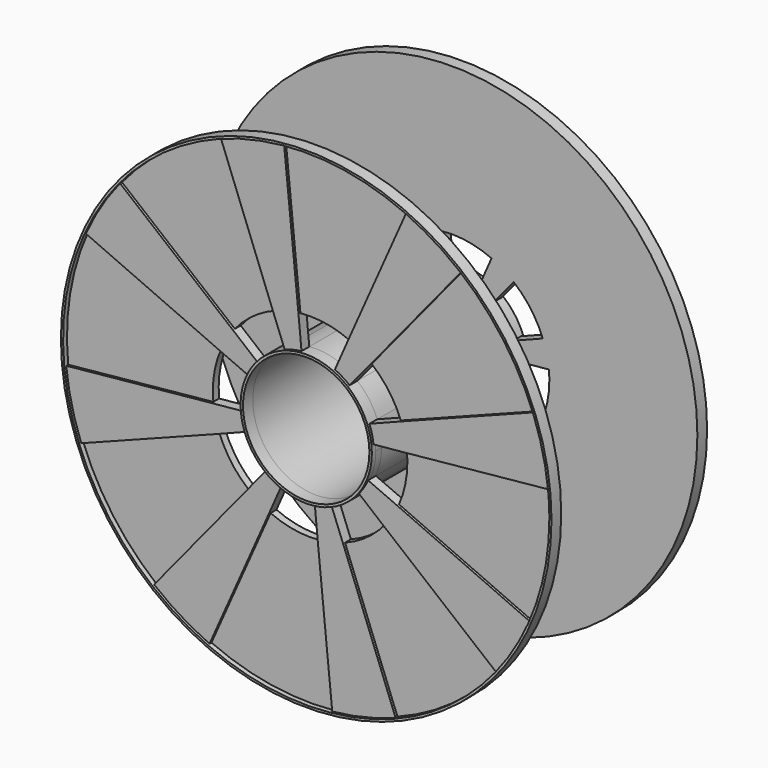
from build123d import *

# Parameters (mm, degrees)
F0_R      = 100.8982980886
F0_R_2    = 26
F1_DEPTH  = 3
F2_DEPTH  = 5
F3_DEPTH  = 4
F3_FACE_R = 26
F4_DEPTH  = 2
F7_DEPTH  = 70


with BuildPart() as f1:
    # F0 (on Front) → F1 (new body)
    with BuildSketch(Plane.XZ):
        Circle(F0_R)
        with BuildLine():
            ThreePointArc((93.3159659734, 35.9462166918), (97.2869491535, 23.1354603242), (99.5078939666, 9.9085336115))
            ThreePointArc((99.5078939666, 9.9085336115), (99.8768977208, 4.9603731381), (100, 0))
            ThreePointArc((100, 0), (97.8269303192, -20.7338299483), (91.4021659135, -40.566538752))
            ThreePointArc((91.4021659135, -40.566538752), (85.1515023485, -52.4330205863), (77.3690979137, -63.3563152971))
            ThreePointArc((77.3690979137, -63.3563152971), (58.6044818951, -81.0278637371), (35.9462166918, -93.3159659734))
            ThreePointArc((35.9462166918, -93.3159659734), (23.1354603242, -97.2869491535), (9.9085336115, -99.5078939666))
            ThreePointArc((9.9085336115, -99.5078939666), (-15.8557253576, -98.7349784696), (-40.566538752, -91.4021659135))
            ThreePointArc((-40.566538752, -91.4021659135), (-52.4330205863, -85.1515023485), (-63.3563152971, -77.3690979137))
            ThreePointArc((-63.3563152971, -77.3690979137), (-81.0278637371, -58.6044818951), (-93.3159659734, -35.9462166918))
            ThreePointArc((-93.3159659734, -35.9462166918), (-97.2869491535, -23.1354603242), (-99.5078939666, -9.9085336115))
            ThreePointArc((-99.5078939666, -9.9085336115), (-98.7349784696, 15.8557253576), (-91.4021659135, 40.566538752))
            ThreePointArc((-91.4021659135, 40.566538752), (-85.1515023485, 52.4330205863), (-77.3690979137, 63.3563152971))
            ThreePointArc((-77.3690979137, 63.3563152971), (-58.6044818951, 81.0278637371), (-35.9462166918, 93.3159659734))
            ThreePointArc((-35.9462166918, 93.3159659734), (-23.1354603242, 97.2869491535), (-9.9085336115, 99.5078939666))
            ThreePointArc((-9.9085336115, 99.5078939666), (15.8557253576, 98.7349784696), (40.566538752, 91.4021659135))
            ThreePointArc((40.566538752, 91.4021659135), (52.4330205863, 85.1515023485), (63.3563152971, 77.3690979137))
            ThreePointArc((63.3563152971, 77.3690979137), (81.0278637371, 58.6044818951), (93.3159659734, 35.9462166918))
        make_face(mode=Mode.SUBTRACT)
        with BuildLine():
            ThreePointArc((24.6560858332, -11.0035190455), (26.4075208747, -5.6251969967), (27, 0))
            ThreePointArc((27, 0), (26.9653758366, 1.3669330599), (26.8615921489, 2.7303602743))
            ThreePointArc((26.8615921489, 2.7303602743), (26.2674762714, 6.2465742875), (25.2151484242, 9.6538225562))
            ThreePointArc((25.2151484242, 9.6538225562), (21.877523209, 15.8232101117), (17.0633576969, 20.924670227))
            ThreePointArc((17.0633576969, 20.924670227), (14.1569155583, 22.9909056341), (11.0035190455, 24.6560858332))
            ThreePointArc((11.0035190455, 24.6560858332), (4.2810458466, 26.6584441868), (-2.7303602743, 26.8615921489))
            ThreePointArc((-2.7303602743, 26.8615921489), (-6.2465742875, 26.2674762714), (-9.6538225562, 25.2151484242))
            ThreePointArc((-9.6538225562, 25.2151484242), (-15.8232101117, 21.877523209), (-20.924670227, 17.0633576969))
            ThreePointArc((-20.924670227, 17.0633576969), (-22.9909056341, 14.1569155583), (-24.6560858332, 11.0035190455))
            ThreePointArc((-24.6560858332, 11.0035190455), (-26.6584441868, 4.2810458466), (-26.8615921489, -2.7303602743))
            ThreePointArc((-26.8615921489, -2.7303602743), (-26.2674762714, -6.2465742875), (-25.2151484242, -9.6538225562))
            ThreePointArc((-25.2151484242, -9.6538225562), (-21.877523209, -15.8232101117), (-17.0633576969, -20.924670227))
            ThreePointArc((-17.0633576969, -20.924670227), (-14.1569155583, -22.9909056341), (-11.0035190455, -24.6560858332))
            ThreePointArc((-11.0035190455, -24.6560858332), (-4.2810458466, -26.6584441868), (2.7303602743, -26.8615921489))
            ThreePointArc((2.7303602743, -26.8615921489), (6.2465742875, -26.2674762714), (9.6538225562, -25.2151484242))
            ThreePointArc((9.6538225562, -25.2151484242), (15.8232101117, -21.877523209), (20.924670227, -17.0633576969))
            ThreePointArc((20.924670227, -17.0633576969), (22.9909056341, -14.1569155583), (24.6560858332, -11.0035190455))
        make_face()
        Circle(F0_R_2, mode=Mode.SUBTRACT)
        with BuildLine():
            Line((77.3690979137, -63.3563152971), (30.9476391655, -25.3425261188))
            ThreePointArc((30.9476391655, -25.3425261188), (23.441792758, -32.4111454949), (14.3784866767, -37.3263863894))
            Line((14.3784866767, -37.3263863894), (35.9462166918, -93.3159659734))
            ThreePointArc((35.9462166918, -93.3159659734), (58.6044818951, -81.0278637371), (77.3690979137, -63.3563152971))
        make_face()
        with BuildLine():
            Line((-63.3563152971, -77.3690979137), (-25.3425261188, -30.9476391655))
            ThreePointArc((-25.3425261188, -30.9476391655), (-32.4111454949, -23.441792758), (-37.3263863894, -14.3784866767))
            Line((-37.3263863894, -14.3784866767), (-93.3159659734, -35.9462166918))
            ThreePointArc((-93.3159659734, -35.9462166918), (-81.0278637371, -58.6044818951), (-63.3563152971, -77.3690979137))
        make_face()
        with BuildLine():
            ThreePointArc((-39.8031575866, -3.9634134446), (-39.4939913878, 6.3422901431), (-36.5608663654, 16.2266155008))
            Line((-36.5608663654, 16.2266155008), (-91.4021659135, 40.566538752))
            ThreePointArc((-91.4021659135, 40.566538752), (-98.7349784696, 15.8557253576), (-99.5078939666, -9.9085336115))
            Line((-99.5078939666, -9.9085336115), (-39.8031575866, -3.9634134446))
        make_face()
        with BuildLine():
            Line((9.9085336115, -99.5078939666), (3.9634134446, -39.8031575866))
            ThreePointArc((3.9634134446, -39.8031575866), (-6.3422901431, -39.4939913878), (-16.2266155008, -36.5608663654))
            Line((-16.2266155008, -36.5608663654), (-40.566538752, -91.4021659135))
            ThreePointArc((-40.566538752, -91.4021659135), (-15.8557253576, -98.7349784696), (9.9085336115, -99.5078939666))
        make_face()
        with BuildLine():
            Line((99.5078939666, 9.9085336115), (39.8031575866, 3.9634134446))
            ThreePointArc((39.8031575866, 3.9634134446), (39.9507590883, 1.9841492552), (40, 0))
            ThreePointArc((40, 0), (39.1307721277, -8.2935319793), (36.5608663654, -16.2266155008))
            Line((36.5608663654, -16.2266155008), (91.4021659135, -40.566538752))
            ThreePointArc((91.4021659135, -40.566538752), (97.8269303192, -20.7338299483), (100, 0))
            ThreePointArc((100, 0), (99.8768977208, 4.9603731381), (99.5078939666, 9.9085336115))
        make_face()
        with BuildLine():
            ThreePointArc((-30.9476391655, 25.3425261188), (-23.441792758, 32.4111454949), (-14.3784866767, 37.3263863894))
            Line((-14.3784866767, 37.3263863894), (-35.9462166918, 93.3159659734))
            ThreePointArc((-35.9462166918, 93.3159659734), (-58.6044818951, 81.0278637371), (-77.3690979137, 63.3563152971))
            Line((-77.3690979137, 63.3563152971), (-30.9476391655, 25.3425261188))
        make_face()
        with BuildLine():
            ThreePointArc((-3.9634134446, 39.8031575866), (6.3422901431, 39.4939913878), (16.2266155008, 36.5608663654))
            Line((16.2266155008, 36.5608663654), (40.566538752, 91.4021659135))
            ThreePointArc((40.566538752, 91.4021659135), (15.8557253576, 98.7349784696), (-9.9085336115, 99.5078939666))
            Line((-9.9085336115, 99.5078939666), (-3.9634134446, 39.8031575866))
        make_face()
        with BuildLine():
            ThreePointArc((25.3425261188, 30.9476391655), (32.4111454949, 23.441792758), (37.3263863894, 14.3784866767))
            Line((37.3263863894, 14.3784866767), (93.3159659734, 35.9462166918))
            ThreePointArc((93.3159659734, 35.9462166918), (81.0278637371, 58.6044818951), (63.3563152971, 77.3690979137))
            Line((63.3563152971, 77.3690979137), (25.3425261188, 30.9476391655))
        make_face()
        with BuildLine():
            ThreePointArc((37.3263863894, 14.3784866767), (38.9147796614, 9.2541841297), (39.8031575866, 3.9634134446))
            Line((39.8031575866, 3.9634134446), (99.5078939666, 9.9085336115))
            ThreePointArc((99.5078939666, 9.9085336115), (97.2869491535, 23.1354603242), (93.3159659734, 35.9462166918))
            Line((93.3159659734, 35.9462166918), (37.3263863894, 14.3784866767))
        make_face()
        with BuildLine():
            Line((-93.3159659734, -35.9462166918), (-37.3263863894, -14.3784866767))
            ThreePointArc((-37.3263863894, -14.3784866767), (-38.9147796614, -9.2541841297), (-39.8031575866, -3.9634134446))
            Line((-39.8031575866, -3.9634134446), (-99.5078939666, -9.9085336115))
            ThreePointArc((-99.5078939666, -9.9085336115), (-97.2869491535, -23.1354603242), (-93.3159659734, -35.9462166918))
        make_face()
        with BuildLine():
            Line((91.4021659135, -40.566538752), (36.5608663654, -16.2266155008))
            ThreePointArc((36.5608663654, -16.2266155008), (34.0606009394, -20.9732082345), (30.9476391655, -25.3425261188))
            Line((30.9476391655, -25.3425261188), (77.3690979137, -63.3563152971))
            ThreePointArc((77.3690979137, -63.3563152971), (85.1515023485, -52.4330205863), (91.4021659135, -40.566538752))
        make_face()
        with BuildLine():
            Line((-40.566538752, -91.4021659135), (-16.2266155008, -36.5608663654))
            ThreePointArc((-16.2266155008, -36.5608663654), (-20.9732082345, -34.0606009394), (-25.3425261188, -30.9476391655))
            Line((-25.3425261188, -30.9476391655), (-63.3563152971, -77.3690979137))
            ThreePointArc((-63.3563152971, -77.3690979137), (-52.4330205863, -85.1515023485), (-40.566538752, -91.4021659135))
        make_face()
        with BuildLine():
            ThreePointArc((-14.3784866767, 37.3263863894), (-9.2541841297, 38.9147796614), (-3.9634134446, 39.8031575866))
            Line((-3.9634134446, 39.8031575866), (-9.9085336115, 99.5078939666))
            ThreePointArc((-9.9085336115, 99.5078939666), (-23.1354603242, 97.2869491535), (-35.9462166918, 93.3159659734))
            Line((-35.9462166918, 93.3159659734), (-14.3784866767, 37.3263863894))
        make_face()
        with BuildLine():
            ThreePointArc((-36.5608663654, 16.2266155008), (-34.0606009394, 20.9732082345), (-30.9476391655, 25.3425261188))
            Line((-30.9476391655, 25.3425261188), (-77.3690979137, 63.3563152971))
            ThreePointArc((-77.3690979137, 63.3563152971), (-85.1515023485, 52.4330205863), (-91.4021659135, 40.566538752))
            Line((-91.4021659135, 40.566538752), (-36.5608663654, 16.2266155008))
        make_face()
        with BuildLine():
            Line((35.9462166918, -93.3159659734), (14.3784866767, -37.3263863894))
            ThreePointArc((14.3784866767, -37.3263863894), (9.2541841297, -38.9147796614), (3.9634134446, -39.8031575866))
            Line((3.9634134446, -39.8031575866), (9.9085336115, -99.5078939666))
            ThreePointArc((9.9085336115, -99.5078939666), (23.1354603242, -97.2869491535), (35.9462166918, -93.3159659734))
        make_face()
        with BuildLine():
            ThreePointArc((16.2266155008, 36.5608663654), (20.9732082345, 34.0606009394), (25.3425261188, 30.9476391655))
            Line((25.3425261188, 30.9476391655), (63.3563152971, 77.3690979137))
            ThreePointArc((63.3563152971, 77.3690979137), (52.4330205863, 85.1515023485), (40.566538752, 91.4021659135))
            Line((40.566538752, 91.4021659135), (16.2266155008, 36.5608663654))
        make_face()
        with BuildLine():
            ThreePointArc((25.2151484242, 9.6538225562), (26.2674762714, 6.2465742875), (26.8615921489, 2.7303602743))
            Line((26.8615921489, 2.7303602743), (39.8031575866, 3.9634134446))
            ThreePointArc((39.8031575866, 3.9634134446), (38.9147796614, 9.2541841297), (37.3263863894, 14.3784866767))
            Line((37.3263863894, 14.3784866767), (25.2151484242, 9.6538225562))
        make_face()
        with BuildLine():
            ThreePointArc((11.0035190455, 24.6560858332), (14.1569155583, 22.9909056341), (17.0633576969, 20.924670227))
            Line((17.0633576969, 20.924670227), (25.3425261188, 30.9476391655))
            ThreePointArc((25.3425261188, 30.9476391655), (20.9732082345, 34.0606009394), (16.2266155008, 36.5608663654))
            Line((16.2266155008, 36.5608663654), (11.0035190455, 24.6560858332))
        make_face()
        with BuildLine():
            Line((36.5608663654, -16.2266155008), (24.6560858332, -11.0035190455))
            ThreePointArc((24.6560858332, -11.0035190455), (22.9909056341, -14.1569155583), (20.924670227, -17.0633576969))
            Line((20.924670227, -17.0633576969), (30.9476391655, -25.3425261188))
            ThreePointArc((30.9476391655, -25.3425261188), (34.0606009394, -20.9732082345), (36.5608663654, -16.2266155008))
        make_face()
        with BuildLine():
            Line((14.3784866767, -37.3263863894), (9.6538225562, -25.2151484242))
            ThreePointArc((9.6538225562, -25.2151484242), (6.2465742875, -26.2674762714), (2.7303602743, -26.8615921489))
            Line((2.7303602743, -26.8615921489), (3.9634134446, -39.8031575866))
            ThreePointArc((3.9634134446, -39.8031575866), (9.2541841297, -38.9147796614), (14.3784866767, -37.3263863894))
        make_face()
        with BuildLine():
            Line((-37.3263863894, -14.3784866767), (-25.2151484242, -9.6538225562))
            ThreePointArc((-25.2151484242, -9.6538225562), (-26.2674762714, -6.2465742875), (-26.8615921489, -2.7303602743))
            Line((-26.8615921489, -2.7303602743), (-39.8031575866, -3.9634134446))
            ThreePointArc((-39.8031575866, -3.9634134446), (-38.9147796614, -9.2541841297), (-37.3263863894, -14.3784866767))
        make_face()
        with BuildLine():
            Line((-16.2266155008, -36.5608663654), (-11.0035190455, -24.6560858332))
            ThreePointArc((-11.0035190455, -24.6560858332), (-14.1569155583, -22.9909056341), (-17.0633576969, -20.924670227))
            Line((-17.0633576969, -20.924670227), (-25.3425261188, -30.9476391655))
            ThreePointArc((-25.3425261188, -30.9476391655), (-20.9732082345, -34.0606009394), (-16.2266155008, -36.5608663654))
        make_face()
        with BuildLine():
            ThreePointArc((-24.6560858332, 11.0035190455), (-22.9909056341, 14.1569155583), (-20.924670227, 17.0633576969))
            Line((-20.924670227, 17.0633576969), (-30.9476391655, 25.3425261188))
            ThreePointArc((-30.9476391655, 25.3425261188), (-34.0606009394, 20.9732082345), (-36.5608663654, 16.2266155008))
            Line((-36.5608663654, 16.2266155008), (-24.6560858332, 11.0035190455))
        make_face()
        with BuildLine():
            ThreePointArc((-9.6538225562, 25.2151484242), (-6.2465742875, 26.2674762714), (-2.7303602743, 26.8615921489))
            Line((-2.7303602743, 26.8615921489), (-3.9634134446, 39.8031575866))
            ThreePointArc((-3.9634134446, 39.8031575866), (-9.2541841297, 38.9147796614), (-14.3784866767, 37.3263863894))
            Line((-14.3784866767, 37.3263863894), (-9.6538225562, 25.2151484242))
        make_face()
    extrude(amount=F1_DEPTH)

    # F0 (on Front) → F2 (join)
    with BuildSketch(Plane.XZ):
        Circle(F0_R)
        with BuildLine():
            ThreePointArc((93.3159659734, 35.9462166918), (97.2869491535, 23.1354603242), (99.5078939666, 9.9085336115))
            ThreePointArc((99.5078939666, 9.9085336115), (99.8768977208, 4.9603731381), (100, 0))
            ThreePointArc((100, 0), (97.8269303192, -20.7338299483), (91.4021659135, -40.566538752))
            ThreePointArc((91.4021659135, -40.566538752), (85.1515023485, -52.4330205863), (77.3690979137, -63.3563152971))
            ThreePointArc((77.3690979137, -63.3563152971), (58.6044818951, -81.0278637371), (35.9462166918, -93.3159659734))
            ThreePointArc((35.9462166918, -93.3159659734), (23.1354603242, -97.2869491535), (9.9085336115, -99.5078939666))
            ThreePointArc((9.9085336115, -99.5078939666), (-15.8557253576, -98.7349784696), (-40.566538752, -91.4021659135))
            ThreePointArc((-40.566538752, -91.4021659135), (-52.4330205863, -85.1515023485), (-63.3563152971, -77.3690979137))
            ThreePointArc((-63.3563152971, -77.3690979137), (-81.0278637371, -58.6044818951), (-93.3159659734, -35.9462166918))
            ThreePointArc((-93.3159659734, -35.9462166918), (-97.2869491535, -23.1354603242), (-99.5078939666, -9.9085336115))
            ThreePointArc((-99.5078939666, -9.9085336115), (-98.7349784696, 15.8557253576), (-91.4021659135, 40.566538752))
            ThreePointArc((-91.4021659135, 40.566538752), (-85.1515023485, 52.4330205863), (-77.3690979137, 63.3563152971))
            ThreePointArc((-77.3690979137, 63.3563152971), (-58.6044818951, 81.0278637371), (-35.9462166918, 93.3159659734))
            ThreePointArc((-35.9462166918, 93.3159659734), (-23.1354603242, 97.2869491535), (-9.9085336115, 99.5078939666))
            ThreePointArc((-9.9085336115, 99.5078939666), (15.8557253576, 98.7349784696), (40.566538752, 91.4021659135))
            ThreePointArc((40.566538752, 91.4021659135), (52.4330205863, 85.1515023485), (63.3563152971, 77.3690979137))
            ThreePointArc((63.3563152971, 77.3690979137), (81.0278637371, 58.6044818951), (93.3159659734, 35.9462166918))
        make_face(mode=Mode.SUBTRACT)
    extrude(amount=F2_DEPTH)

    # F0 (on Front) → F3 (join)
    with BuildSketch(Plane.XZ):
        with BuildLine():
            ThreePointArc((-36.5608663654, 16.2266155008), (-34.0606009394, 20.9732082345), (-30.9476391655, 25.3425261188))
            Line((-30.9476391655, 25.3425261188), (-77.3690979137, 63.3563152971))
            ThreePointArc((-77.3690979137, 63.3563152971), (-85.1515023485, 52.4330205863), (-91.4021659135, 40.566538752))
            Line((-91.4021659135, 40.566538752), (-36.5608663654, 16.2266155008))
        make_face()
        with BuildLine():
            Line((-93.3159659734, -35.9462166918), (-37.3263863894, -14.3784866767))
            ThreePointArc((-37.3263863894, -14.3784866767), (-38.9147796614, -9.2541841297), (-39.8031575866, -3.9634134446))
            Line((-39.8031575866, -3.9634134446), (-99.5078939666, -9.9085336115))
            ThreePointArc((-99.5078939666, -9.9085336115), (-97.2869491535, -23.1354603242), (-93.3159659734, -35.9462166918))
        make_face()
        with BuildLine():
            Line((-40.566538752, -91.4021659135), (-16.2266155008, -36.5608663654))
            ThreePointArc((-16.2266155008, -36.5608663654), (-20.9732082345, -34.0606009394), (-25.3425261188, -30.9476391655))
            Line((-25.3425261188, -30.9476391655), (-63.3563152971, -77.3690979137))
            ThreePointArc((-63.3563152971, -77.3690979137), (-52.4330205863, -85.1515023485), (-40.566538752, -91.4021659135))
        make_face()
        with BuildLine():
            Line((35.9462166918, -93.3159659734), (14.3784866767, -37.3263863894))
            ThreePointArc((14.3784866767, -37.3263863894), (9.2541841297, -38.9147796614), (3.9634134446, -39.8031575866))
            Line((3.9634134446, -39.8031575866), (9.9085336115, -99.5078939666))
            ThreePointArc((9.9085336115, -99.5078939666), (23.1354603242, -97.2869491535), (35.9462166918, -93.3159659734))
        make_face()
        with BuildLine():
            Line((91.4021659135, -40.566538752), (36.5608663654, -16.2266155008))
            ThreePointArc((36.5608663654, -16.2266155008), (34.0606009394, -20.9732082345), (30.9476391655, -25.3425261188))
            Line((30.9476391655, -25.3425261188), (77.3690979137, -63.3563152971))
            ThreePointArc((77.3690979137, -63.3563152971), (85.1515023485, -52.4330205863), (91.4021659135, -40.566538752))
        make_face()
        with BuildLine():
            ThreePointArc((37.3263863894, 14.3784866767), (38.9147796614, 9.2541841297), (39.8031575866, 3.9634134446))
            Line((39.8031575866, 3.9634134446), (99.5078939666, 9.9085336115))
            ThreePointArc((99.5078939666, 9.9085336115), (97.2869491535, 23.1354603242), (93.3159659734, 35.9462166918))
            Line((93.3159659734, 35.9462166918), (37.3263863894, 14.3784866767))
        make_face()
        with BuildLine():
            ThreePointArc((16.2266155008, 36.5608663654), (20.9732082345, 34.0606009394), (25.3425261188, 30.9476391655))
            Line((25.3425261188, 30.9476391655), (63.3563152971, 77.3690979137))
            ThreePointArc((63.3563152971, 77.3690979137), (52.4330205863, 85.1515023485), (40.566538752, 91.4021659135))
            Line((40.566538752, 91.4021659135), (16.2266155008, 36.5608663654))
        make_face()
        with BuildLine():
            ThreePointArc((-14.3784866767, 37.3263863894), (-9.2541841297, 38.9147796614), (-3.9634134446, 39.8031575866))
            Line((-3.9634134446, 39.8031575866), (-9.9085336115, 99.5078939666))
            ThreePointArc((-9.9085336115, 99.5078939666), (-23.1354603242, 97.2869491535), (-35.9462166918, 93.3159659734))
            Line((-35.9462166918, 93.3159659734), (-14.3784866767, 37.3263863894))
        make_face()
        with BuildLine():
            Line((-16.2266155008, -36.5608663654), (-11.0035190455, -24.6560858332))
            ThreePointArc((-11.0035190455, -24.6560858332), (-14.1569155583, -22.9909056341), (-17.0633576969, -20.924670227))
            Line((-17.0633576969, -20.924670227), (-25.3425261188, -30.9476391655))
            ThreePointArc((-25.3425261188, -30.9476391655), (-20.9732082345, -34.0606009394), (-16.2266155008, -36.5608663654))
        make_face()
        with BuildLine():
            Line((14.3784866767, -37.3263863894), (9.6538225562, -25.2151484242))
            ThreePointArc((9.6538225562, -25.2151484242), (6.2465742875, -26.2674762714), (2.7303602743, -26.8615921489))
            Line((2.7303602743, -26.8615921489), (3.9634134446, -39.8031575866))
            ThreePointArc((3.9634134446, -39.8031575866), (9.2541841297, -38.9147796614), (14.3784866767, -37.3263863894))
        make_face()
        with BuildLine():
            Line((36.5608663654, -16.2266155008), (24.6560858332, -11.0035190455))
            ThreePointArc((24.6560858332, -11.0035190455), (22.9909056341, -14.1569155583), (20.924670227, -17.0633576969))
            Line((20.924670227, -17.0633576969), (30.9476391655, -25.3425261188))
            ThreePointArc((30.9476391655, -25.3425261188), (34.0606009394, -20.9732082345), (36.5608663654, -16.2266155008))
        make_face()
        with BuildLine():
            ThreePointArc((25.2151484242, 9.6538225562), (26.2674762714, 6.2465742875), (26.8615921489, 2.7303602743))
            Line((26.8615921489, 2.7303602743), (39.8031575866, 3.9634134446))
            ThreePointArc((39.8031575866, 3.9634134446), (38.9147796614, 9.2541841297), (37.3263863894, 14.3784866767))
            Line((37.3263863894, 14.3784866767), (25.2151484242, 9.6538225562))
        make_face()
        with BuildLine():
            ThreePointArc((11.0035190455, 24.6560858332), (14.1569155583, 22.9909056341), (17.0633576969, 20.924670227))
            Line((17.0633576969, 20.924670227), (25.3425261188, 30.9476391655))
            ThreePointArc((25.3425261188, 30.9476391655), (20.9732082345, 34.0606009394), (16.2266155008, 36.5608663654))
            Line((16.2266155008, 36.5608663654), (11.0035190455, 24.6560858332))
        make_face()
        with BuildLine():
            ThreePointArc((-9.6538225562, 25.2151484242), (-6.2465742875, 26.2674762714), (-2.7303602743, 26.8615921489))
            Line((-2.7303602743, 26.8615921489), (-3.9634134446, 39.8031575866))
            ThreePointArc((-3.9634134446, 39.8031575866), (-9.2541841297, 38.9147796614), (-14.3784866767, 37.3263863894))
            Line((-14.3784866767, 37.3263863894), (-9.6538225562, 25.2151484242))
        make_face()
        with BuildLine():
            Line((-37.3263863894, -14.3784866767), (-25.2151484242, -9.6538225562))
            ThreePointArc((-25.2151484242, -9.6538225562), (-26.2674762714, -6.2465742875), (-26.8615921489, -2.7303602743))
            Line((-26.8615921489, -2.7303602743), (-39.8031575866, -3.9634134446))
            ThreePointArc((-39.8031575866, -3.9634134446), (-38.9147796614, -9.2541841297), (-37.3263863894, -14.3784866767))
        make_face()
        with BuildLine():
            ThreePointArc((-24.6560858332, 11.0035190455), (-22.9909056341, 14.1569155583), (-20.924670227, 17.0633576969))
            Line((-20.924670227, 17.0633576969), (-30.9476391655, 25.3425261188))
            ThreePointArc((-30.9476391655, 25.3425261188), (-34.0606009394, 20.9732082345), (-36.5608663654, 16.2266155008))
            Line((-36.5608663654, 16.2266155008), (-24.6560858332, 11.0035190455))
        make_face()
    extrude(amount=F3_DEPTH)

    # F3_face (on face) → F4 (join)
    with BuildSketch(Plane.XZ.offset(3)):
        with BuildLine():
            ThreePointArc((2.7303602743, -26.8615921489), (6.2465742875, -26.2674762714), (9.6538225562, -25.2151484242))
            ThreePointArc((9.6538225562, -25.2151484242), (15.8232101117, -21.877523209), (20.924670227, -17.0633576969))
            ThreePointArc((20.924670227, -17.0633576969), (22.9909056341, -14.1569155583), (24.6560858332, -11.0035190455))
            ThreePointArc((24.6560858332, -11.0035190455), (26.6584441868, -4.2810458466), (26.8615921489, 2.7303602743))
            ThreePointArc((26.8615921489, 2.7303602743), (26.2674762714, 6.2465742875), (25.2151484242, 9.6538225562))
            ThreePointArc((25.2151484242, 9.6538225562), (21.877523209, 15.8232101117), (17.0633576969, 20.924670227))
            ThreePointArc((17.0633576969, 20.924670227), (14.1569155583, 22.9909056341), (11.0035190455, 24.6560858332))
            ThreePointArc((11.0035190455, 24.6560858332), (4.2810458466, 26.6584441868), (-2.7303602743, 26.8615921489))
            ThreePointArc((-2.7303602743, 26.8615921489), (-6.2465742875, 26.2674762714), (-9.6538225562, 25.2151484242))
            ThreePointArc((-9.6538225562, 25.2151484242), (-15.8232101117, 21.877523209), (-20.924670227, 17.0633576969))
            ThreePointArc((-20.924670227, 17.0633576969), (-22.9909056341, 14.1569155583), (-24.6560858332, 11.0035190455))
            ThreePointArc((-24.6560858332, 11.0035190455), (-26.6584441868, 4.2810458466), (-26.8615921489, -2.7303602743))
            ThreePointArc((-26.8615921489, -2.7303602743), (-26.2674762714, -6.2465742875), (-25.2151484242, -9.6538225562))
            ThreePointArc((-25.2151484242, -9.6538225562), (-21.877523209, -15.8232101117), (-17.0633576969, -20.924670227))
            ThreePointArc((-17.0633576969, -20.924670227), (-14.1569155583, -22.9909056341), (-11.0035190455, -24.6560858332))
            ThreePointArc((-11.0035190455, -24.6560858332), (-4.2810458466, -26.6584441868), (2.7303602743, -26.8615921489))
        make_face()
        Circle(F3_FACE_R, mode=Mode.SUBTRACT)
    extrude(amount=F4_DEPTH)


with BuildPart() as f5_1:
    # F5: instance of F1
    add(f1.part.mirror(Plane.XZ))


with BuildPart() as f5_1_1:
    # F6: moved
    add(f5_1.part.moved(Location((0, 70, 0))))


with BuildPart() as f7:
    # F0 (on Front) → F7 (new body)
    with BuildSketch(Plane.XZ):
        with BuildLine():
            ThreePointArc((24.6560858332, -11.0035190455), (26.4075208747, -5.6251969967), (27, 0))
            ThreePointArc((27, 0), (26.9653758366, 1.3669330599), (26.8615921489, 2.7303602743))
            ThreePointArc((26.8615921489, 2.7303602743), (26.2674762714, 6.2465742875), (25.2151484242, 9.6538225562))
            ThreePointArc((25.2151484242, 9.6538225562), (21.877523209, 15.8232101117), (17.0633576969, 20.924670227))
            ThreePointArc((17.0633576969, 20.924670227), (14.1569155583, 22.9909056341), (11.0035190455, 24.6560858332))
            ThreePointArc((11.0035190455, 24.6560858332), (4.2810458466, 26.6584441868), (-2.7303602743, 26.8615921489))
            ThreePointArc((-2.7303602743, 26.8615921489), (-6.2465742875, 26.2674762714), (-9.6538225562, 25.2151484242))
            ThreePointArc((-9.6538225562, 25.2151484242), (-15.8232101117, 21.877523209), (-20.924670227, 17.0633576969))
            ThreePointArc((-20.924670227, 17.0633576969), (-22.9909056341, 14.1569155583), (-24.6560858332, 11.0035190455))
            ThreePointArc((-24.6560858332, 11.0035190455), (-26.6584441868, 4.2810458466), (-26.8615921489, -2.7303602743))
            ThreePointArc((-26.8615921489, -2.7303602743), (-26.2674762714, -6.2465742875), (-25.2151484242, -9.6538225562))
            ThreePointArc((-25.2151484242, -9.6538225562), (-21.877523209, -15.8232101117), (-17.0633576969, -20.924670227))
            ThreePointArc((-17.0633576969, -20.924670227), (-14.1569155583, -22.9909056341), (-11.0035190455, -24.6560858332))
            ThreePointArc((-11.0035190455, -24.6560858332), (-4.2810458466, -26.6584441868), (2.7303602743, -26.8615921489))
            ThreePointArc((2.7303602743, -26.8615921489), (6.2465742875, -26.2674762714), (9.6538225562, -25.2151484242))
            ThreePointArc((9.6538225562, -25.2151484242), (15.8232101117, -21.877523209), (20.924670227, -17.0633576969))
            ThreePointArc((20.924670227, -17.0633576969), (22.9909056341, -14.1569155583), (24.6560858332, -11.0035190455))
        make_face()
        Circle(F0_R_2, mode=Mode.SUBTRACT)
    extrude(amount=-F7_DEPTH)


solid = Compound([f1.part, f5_1_1.part, f7.part])
